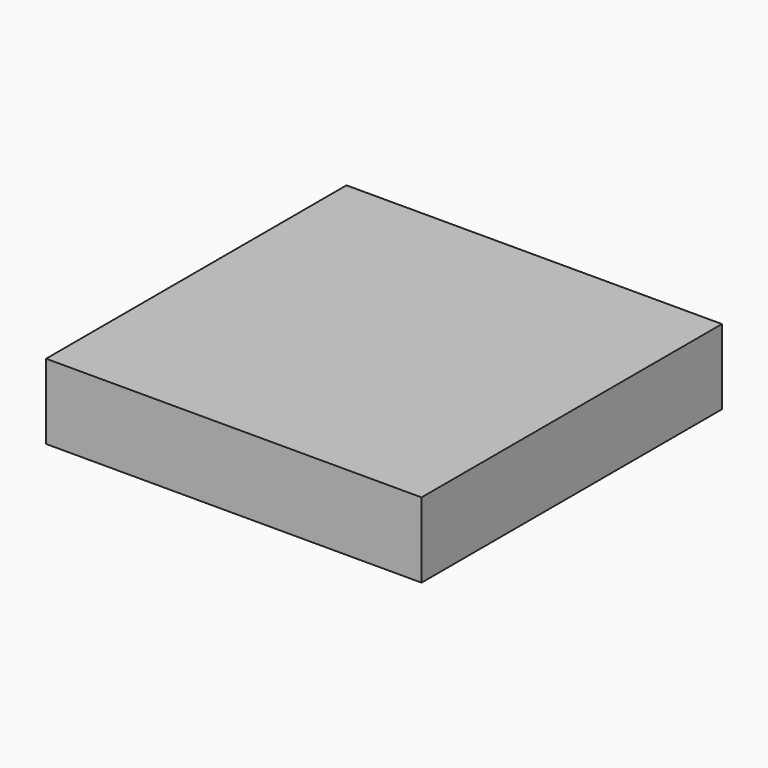
from build123d import *

# Parameters (mm, degrees)
BOX_W     = 10
BOX_H     = 10
BOX_DEPTH = 2


with BuildPart() as part:
    # Box → Box (new body)
    with BuildSketch(Plane.XY):
        with Locations((5, 5)):
            Rectangle(BOX_W, BOX_H)
    extrude(amount=BOX_DEPTH)


solid = part.part
